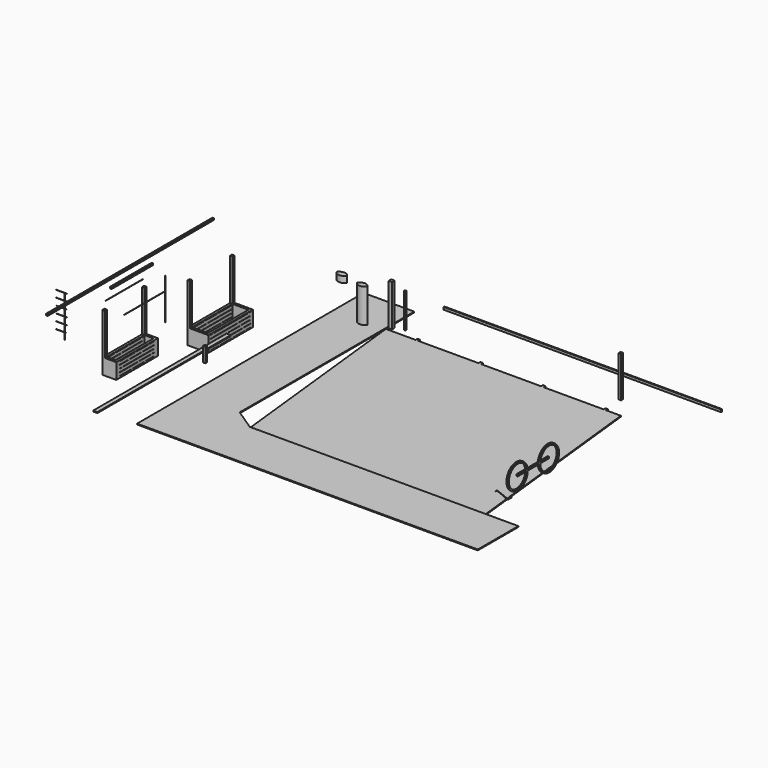
from build123d import *

# Parameters (mm, degrees)
F0_W      = 70
F0_H      = 70
F1_DEPTH  = 25
F0_W_2    = 95
F0_H_2    = 95
F2_W      = 70
F2_H      = 70
F3_DEPTH  = 1180
F4_DEPTH  = 1180
F5_W      = 8000
F5_H      = 30
F6_DEPTH  = 70
F8_DEPTH  = 1000
F9_W      = 35
F9_H      = 35
F10_DEPTH = 1000
F11_W     = 600
F11_H     = 1600
F12_DEPTH = 450
F13_W     = 1460
F13_H     = 5
F14_DEPTH = 700
F15_W     = 70
F15_H     = 70
F16_DEPTH = 1200
F17_W     = 1460
F17_H     = 5
F18_DEPTH = 5
F17_W_2   = 5
F17_H_2   = 1200
F19_W     = 460
F19_H     = 1460
F20_DEPTH = 680
F22_DEPTH = 180
F24_DEPTH = 25
F26_DEPTH = 400
F28_DEPTH = 55
F30_DEPTH = 40
F31_W     = 400
F31_H     = 1500
F32_DEPTH = 450
F33_W     = 1260
F33_H     = 5
F34_DEPTH = 444
F35_W     = 260
F35_H     = 1360
F36_DEPTH = 444
F37_W     = 70
F37_H     = 70
F38_DEPTH = 1200
F39_W     = 1360
F39_H     = 5
F40_DEPTH = 5
F42_DEPTH = 5
F43_W     = 1500
F43_H     = 45
F44_DEPTH = 45
F45_W     = 120
F45_H     = 4800
F46_DEPTH = 28
F47_W     = 70
F47_H     = 70
F48_DEPTH = 422
F49_W     = 6000
F49_H     = 45
F50_DEPTH = 45


with BuildPart() as f1:
    # F0 (on Top) → F1 (new body)
    with BuildSketch(Plane.XY):
        Polygon((-5869.2790788165, 5845.7974852638), (-6724.2790788165, 5845.7974852638), (-6103.0290788165, 165.7974852638), (50.7209211835, 165.7974852638), (50.7209211835, 2645.7974852638), (50.7209211835, 5845.7974852638), (-379.2790788165, 5845.7974852638), (-449.2790788165, 5845.7974852638), (-2184.2790788165, 5845.7974852638), (-2254.2790788165, 5845.7974852638), (-3984.2790788165, 5845.7974852638), (-4054.2790788165, 5845.7974852638), (-5799.2790788165, 5845.7974852638), align=None)
        with Locations((-414.2790788165, 5880.7974852638)):
            Rectangle(F0_W, F0_H)
        with Locations((-2219.2790788165, 5880.7974852638)):
            Rectangle(F0_W, F0_H)
        with Locations((-4019.2790788165, 5880.7974852638)):
            Rectangle(F0_W, F0_H)
        with Locations((-5834.2790788165, 5880.7974852638)):
            Rectangle(F0_W, F0_H)
        Polygon((50.7209211835, 2645.7974852638), (50.7209211835, 165.7974852638), (671.9709211835, 165.7974852638), (400.7209211835, 2645.7974852638), align=None)
        Polygon((50.7209211835, 5845.7974852638), (50.7209211835, 2645.7974852638), (400.7209211835, 2645.7974852638), align=None)
    extrude(amount=-F1_DEPTH)


with BuildPart() as f1b:
    # F0 (on Top) → F1, piece 2 (new body)
    with BuildSketch(Plane.XY):
        with Locations((-6676.7790788165, 5993.2974852638)):
            Rectangle(F0_W_2, F0_H_2)
    extrude(amount=-F1_DEPTH)

    # F4 (add): a face of the model
    f4_faces = [f1b.faces().sort_by_distance(p)[0] for p in [
        (-6676.7790788165, 5993.2974852638, 0),
    ]]
    extrude(f4_faces, amount=F4_DEPTH)


with BuildPart() as f3:
    # F2 (on Top) → F3 (new body)
    with BuildSketch(Plane.XY):
        with Locations((-449.0643179417, 6467.4450492859)):
            Rectangle(F2_W, F2_H)
    extrude(amount=F3_DEPTH)


with BuildPart() as f6:
    # F5 (on Top) → F6 (new body)
    with BuildSketch(Plane.XY):
        with Locations((-2295.0716018677, 7401.8494033813)):
            Rectangle(F5_W, F5_H)
    extrude(amount=F6_DEPTH)


with BuildPart() as f8:
    # F7 (on Top) → F8 (new body)
    with BuildSketch(Plane.XY):
        with BuildLine():
            Line((-7445.792636716, 5703.4991982798), (-7135.792636716, 5703.4991982798))
            ThreePointArc((-7135.792636716, 5703.4991982798), (-7202.4042890677, 5765.854420462), (-7290.792636716, 5788.4991982798))
            ThreePointArc((-7290.792636716, 5788.4991982798), (-7379.1809843644, 5765.854420462), (-7445.792636716, 5703.4991982798))
        make_face()
        with BuildLine():
            ThreePointArc((-7445.792636716, 5703.4991982798), (-7290.792636716, 5618.4991982798), (-7135.792636716, 5703.4991982798))
            Line((-7135.792636716, 5703.4991982798), (-7445.792636716, 5703.4991982798))
        make_face()
    extrude(amount=F8_DEPTH)


with BuildPart() as f10:
    # F9 (on Top) → F10 (new body)
    with BuildSketch(Plane.XY):
        with Locations((-6349.4686317444, 6072.027759552)):
            Rectangle(F9_W, F9_H)
    extrude(amount=F10_DEPTH)


with BuildPart() as f12:
    # F11 (on Top) → F12 (new body)
    with BuildSketch(Plane.XY):
        with Locations((-9414.3159866333, 3235.9128475189)):
            Rectangle(F11_W, F11_H)
    extrude(amount=F12_DEPTH)

    # F13 (on face) → F14 (cut)
    with BuildSketch(Plane(origin=(-9714.3159866333, 0, 0), x_dir=(0, -1, 0), z_dir=(-1, 0, 0))):
        with Locations((-3235.9128475189, 425.5)):
            Rectangle(F13_W, F13_H)
        with Locations((-3235.9128475189, 325.5)):
            Rectangle(F13_W, F13_H)
        with Locations((-3235.9128475189, 225.5)):
            Rectangle(F13_W, F13_H)
        with Locations((-3235.9128475189, 125.5)):
            Rectangle(F13_W, F13_H)
        with Locations((-3235.9128475189, 25.5)):
            Rectangle(F13_W, F13_H)
        with Locations((-3235.9128475189, -74.5)):
            Rectangle(F13_W, F13_H)
        with Locations((-3235.9128475189, -174.5)):
            Rectangle(F13_W, F13_H)
        with Locations((-3235.9128475189, -274.5)):
            Rectangle(F13_W, F13_H)
        with Locations((-3235.9128475189, -374.5)):
            Rectangle(F13_W, F13_H)
    extrude(amount=-F14_DEPTH, mode=Mode.SUBTRACT)

    # F15 (on face) → F16 (join)
    with BuildSketch(Plane.XY.offset(450)):
        with Locations((-9679.3159866333, 4000.9128475189)):
            Rectangle(F15_W, F15_H)
        with Locations((-9679.3159866333, 2470.9128475189)):
            Rectangle(F15_W, F15_H)
    extrude(amount=F16_DEPTH)

    # F19 (on face) → F20 (cut)
    with BuildSketch(Plane.XY.offset(450)):
        with Locations((-9414.3159866333, 3235.9128475189)):
            Rectangle(F19_W, F19_H)
    extrude(amount=-F20_DEPTH, mode=Mode.SUBTRACT)


with BuildPart() as f18:
    # F17 (on face) → F18 (new body)
    with BuildSketch(Plane.YZ.offset(-9644.3159866333)):
        with Locations((773.2828426361, 1760.5777406693)):
            Rectangle(F17_W, F17_H)
    extrude(amount=F18_DEPTH)


with BuildPart() as f18b:
    # F17 (on face) → F18, piece 2 (new body)
    with BuildSketch(Plane.YZ.offset(-9644.3159866333)):
        with Locations((1536.8949699402, 1562.3432159424)):
            Rectangle(F17_W_2, F17_H_2)
    extrude(amount=F18_DEPTH)


with BuildPart() as f22:
    # F21 (on face) → F22 (new body)
    with BuildSketch(Plane.XY.offset(1000)):
        with BuildLine():
            ThreePointArc((-7763.4728565626, 5638.9939374938), (-7851.8612042109, 5616.3491596761), (-7918.4728565626, 5553.9939374938))
            Line((-7918.4728565626, 5553.9939374938), (-7608.4728565626, 5553.9939374938))
            ThreePointArc((-7608.4728565626, 5553.9939374938), (-7675.0845089143, 5616.3491596761), (-7763.4728565626, 5638.9939374938))
        make_face()
        with BuildLine():
            Line((-7608.4728565626, 5553.9939374938), (-7918.4728565626, 5553.9939374938))
            ThreePointArc((-7918.4728565626, 5553.9939374938), (-7763.4728565626, 5468.9939374938), (-7608.4728565626, 5553.9939374938))
        make_face()
    extrude(amount=F22_DEPTH)


with BuildPart() as f24:
    # F23 (on face) → F24 (new body)
    with BuildSketch(Plane.XY):
        Polygon((-6724.2790788165, 575.919418352), (-6724.2790788165, 5845.7974852638), (-6724.2790788165, 6866.5833473206), (-8184.2790788165, 6866.5833473206), (-8184.2790788165, -1294.2025147362), (1636.7558240891, -1294.2025147362), (1636.7558240891, 165.7974852638), (671.9709211835, 165.7974852638), (-6103.0290788165, 165.7974852638), align=None)
    extrude(amount=F24_DEPTH)


with BuildPart() as f26:
    # F25 (on face) → F26 (new body)
    with BuildSketch(Plane.XY):
        with BuildLine():
            ThreePointArc((623.9199085236, 1175.5237293243), (616.890471272, 1192.4942920728), (599.9199085236, 1199.5237293243))
            Line((599.9199085236, 1199.5237293243), (597.9199085236, 1199.5237293243))
            ThreePointArc((597.9199085236, 1199.5237293243), (580.9493457751, 1192.4942920728), (573.9199085236, 1175.5237293243))
            Line((573.9199085236, 1175.5237293243), (573.9199085236, 1062.263886726))
            Line((573.9199085236, 1062.263886726), (581.9199085236, 989.1210295832))
            Line((581.9199085236, 989.1210295832), (581.9199085236, 1175.5237293243))
            ThreePointArc((581.9199085236, 1175.5237293243), (586.6062000246, 1186.8374378233), (597.9199085236, 1191.5237293243))
            Line((597.9199085236, 1191.5237293243), (599.9199085236, 1191.5237293243))
            ThreePointArc((599.9199085236, 1191.5237293243), (611.2336170225, 1186.8374378233), (615.9199085236, 1175.5237293243))
            Line((615.9199085236, 1175.5237293243), (615.9199085236, 678.263886726))
            Line((615.9199085236, 678.263886726), (622.7250547496, 616.045406945))
            ThreePointArc((622.7250547496, 616.045406945), (623.6193126239, 619.7371417725), (623.9199085236, 623.5237293243))
            Line((623.9199085236, 623.5237293243), (623.9199085236, 1175.5237293243))
        make_face()
    extrude(amount=F26_DEPTH)

    # F27 (on face) → F28 (cut)
    with BuildSketch(Plane.YZ.offset(623.9199085236)):
        Polygon((623.5237293243, 392), (400.9007413461, 392), (417.0500591248, -229.798211609), (1075.4414796829, -239.656701254), (1075.4414796829, 0), (1065.7824277878, 0), (623.5237293243, 0), align=None)
        Polygon((664.1947031021, 392), (623.5237293243, 392), (623.5237293243, 0), (1065.7824277878, 0), align=None)
        Polygon((670.0908140081, 465.2604162693), (667.45193757, 400), (1175.5237293243, 400), (1175.5237293243, 8), (1266.1646604538, 8), (1215.611238851, 445.5354809761), align=None)
        Polygon((1175.5237293243, 400), (667.45193757, 400), (1069.0396622557, 8), (1175.5237293243, 8), align=None)
    extrude(amount=-F28_DEPTH, mode=Mode.SUBTRACT)


with BuildPart() as f30:
    # F29 (on face) → F30 (new body)
    with BuildSketch(Plane.YZ.offset(623.9199085236)):
        with BuildLine():
            Line((2134.1955555213, 526.090323925), (1718.7136565911, 526.090323925))
            ThreePointArc((1718.7136565911, 526.090323925), (1002.1404968199, 459.5391004529), (1721.4546060562, 481.7510545254))
            Line((1721.4546060562, 481.7510545254), (2131.4546060562, 481.7510545254))
            ThreePointArc((2131.4546060562, 481.7510545254), (2850.7687152925, 459.5391004529), (2134.1955555213, 526.090323925))
        make_face()
        with BuildLine():
            ThreePointArc((1681.4546060562, 481.7510545254), (1042.2272179104, 459.5277636444), (1678.3678894463, 526.090323925))
            Line((1678.3678894463, 526.090323925), (1361.4546060562, 526.090323925))
            Line((1361.4546060562, 526.090323925), (1361.4546060562, 481.7510545254))
            Line((1361.4546060562, 481.7510545254), (1681.4546060562, 481.7510545254))
        make_face(mode=Mode.SUBTRACT)
        with BuildLine():
            Line((2171.4546060562, 481.7510545254), (2491.4546060562, 481.7510545254))
            Line((2491.4546060562, 481.7510545254), (2491.4546060562, 526.090323925))
            Line((2491.4546060562, 526.090323925), (2174.5413226661, 526.090323925))
            ThreePointArc((2174.5413226661, 526.090323925), (2810.6819942021, 459.5277636444), (2171.4546060562, 481.7510545254))
        make_face(mode=Mode.SUBTRACT)
    extrude(amount=F30_DEPTH)


with BuildPart() as f32:
    # F31 (on face) → F32 (new body)
    with BuildSketch(Plane.XY):
        with Locations((-10110.4724884033, 861.6825714707)):
            Rectangle(F31_W, F31_H)
    extrude(amount=F32_DEPTH)

    # F33 (on face) → F34 (cut)
    with BuildSketch(Plane(origin=(-10310.4724884033, 0, 0), x_dir=(0, -1, 0), z_dir=(-1, 0, 0))):
        with Locations((-836.6825714707, 427.5)):
            Rectangle(F33_W, F33_H)
        with Locations((-836.6825714707, 332.5)):
            Rectangle(F33_W, F33_H)
        with Locations((-836.6825714707, 237.5)):
            Rectangle(F33_W, F33_H)
        with Locations((-836.6825714707, 142.5)):
            Rectangle(F33_W, F33_H)
        with Locations((-836.6825714707, 47.5)):
            Rectangle(F33_W, F33_H)
    extrude(amount=-F34_DEPTH, mode=Mode.SUBTRACT)

    # F35 (on face) → F36 (cut)
    with BuildSketch(Plane.XY.offset(450)):
        with Locations((-10110.4724884033, 861.6825714707)):
            Rectangle(F35_W, F35_H)
    extrude(amount=-F36_DEPTH, mode=Mode.SUBTRACT)

    # F37 (on face) → F38 (join)
    with BuildSketch(Plane.XY.offset(450)):
        with Locations((-10275.4724884033, 146.6825714707)):
            Rectangle(F37_W, F37_H)
        with Locations((-10275.4724884033, 1576.6825714707)):
            Rectangle(F37_W, F37_H)
    extrude(amount=F38_DEPTH)


with BuildPart() as f40:
    # F39 (on face) → F40 (new body)
    with BuildSketch(Plane.YZ.offset(-10240.4724884033)):
        with Locations((795.8009469509, 1893.8551568985)):
            Rectangle(F39_W, F39_H)
    extrude(amount=F40_DEPTH)


with BuildPart() as f42:
    # F41 (on face) → F42 (new body)
    with BuildSketch(Plane.XZ.offset(-111.6825714707)):
        Polygon((-11337.1616668701, 1728.8455486298), (-11642.1616668701, 1728.8455486298), (-11642.1616668701, 1723.8455486298), (-11589.6616668701, 1723.8455486298), (-11589.6616668701, 1528.8455486298), (-11584.6616668701, 1528.8455486298), (-11584.6616668701, 1723.8455486298), (-11394.6616668701, 1723.8455486298), (-11394.6616668701, 1528.8455486298), (-11389.6616668701, 1528.8455486298), (-11389.6616668701, 1723.8455486298), (-11337.1616668701, 1723.8455486298), align=None)
        Polygon((-11589.6616668701, 1528.8455486298), (-11642.1616668701, 1528.8455486298), (-11642.1616668701, 1523.8455486298), (-11589.6616668701, 1523.8455486298), (-11589.6616668701, 1328.8455486298), (-11584.6616668701, 1328.8455486298), (-11584.6616668701, 1523.8455486298), (-11394.6616668701, 1523.8455486298), (-11394.6616668701, 1328.8455486298), (-11389.6616668701, 1328.8455486298), (-11389.6616668701, 1523.8455486298), (-11337.1616668701, 1523.8455486298), (-11337.1616668701, 1528.8455486298), (-11389.6616668701, 1528.8455486298), (-11394.6616668701, 1528.8455486298), (-11584.6616668701, 1528.8455486298), align=None)
        Polygon((-11589.6616668701, 1328.8455486298), (-11642.1616668701, 1328.8455486298), (-11642.1616668701, 1323.8455486298), (-11589.6616668701, 1323.8455486298), (-11589.6616668701, 1128.8455486298), (-11584.6616668701, 1128.8455486298), (-11584.6616668701, 1323.8455486298), (-11394.6616668701, 1323.8455486298), (-11394.6616668701, 1128.8455486298), (-11389.6616668701, 1128.8455486298), (-11389.6616668701, 1323.8455486298), (-11337.1616668701, 1323.8455486298), (-11337.1616668701, 1328.8455486298), (-11389.6616668701, 1328.8455486298), (-11394.6616668701, 1328.8455486298), (-11584.6616668701, 1328.8455486298), align=None)
        Polygon((-11589.6616668701, 1128.8455486298), (-11642.1616668701, 1128.8455486298), (-11642.1616668701, 1123.8455486298), (-11589.6616668701, 1123.8455486298), (-11589.6616668701, 928.8455486298), (-11584.6616668701, 928.8455486298), (-11584.6616668701, 1123.8455486298), (-11394.6616668701, 1123.8455486298), (-11394.6616668701, 928.8455486298), (-11389.6616668701, 928.8455486298), (-11389.6616668701, 1123.8455486298), (-11337.1616668701, 1123.8455486298), (-11337.1616668701, 1128.8455486298), (-11389.6616668701, 1128.8455486298), (-11394.6616668701, 1128.8455486298), (-11584.6616668701, 1128.8455486298), align=None)
        Polygon((-11589.6616668701, 928.8455486298), (-11642.1616668701, 928.8455486298), (-11642.1616668701, 923.8455486298), (-11589.6616668701, 923.8455486298), (-11589.6616668701, 728.8455486298), (-11584.6616668701, 728.8455486298), (-11584.6616668701, 923.8455486298), (-11394.6616668701, 923.8455486298), (-11394.6616668701, 728.8455486298), (-11389.6616668701, 728.8455486298), (-11389.6616668701, 923.8455486298), (-11337.1616668701, 923.8455486298), (-11337.1616668701, 928.8455486298), (-11389.6616668701, 928.8455486298), (-11394.6616668701, 928.8455486298), (-11584.6616668701, 928.8455486298), align=None)
        Polygon((-11589.6616668701, 728.8455486298), (-11642.1616668701, 728.8455486298), (-11642.1616668701, 723.8455486298), (-11589.6616668701, 723.8455486298), (-11589.6616668701, 528.8455486298), (-11584.6616668701, 528.8455486298), (-11584.6616668701, 723.8455486298), (-11394.6616668701, 723.8455486298), (-11394.6616668701, 528.8455486298), (-11389.6616668701, 528.8455486298), (-11389.6616668701, 723.8455486298), (-11337.1616668701, 723.8455486298), (-11337.1616668701, 728.8455486298), (-11389.6616668701, 728.8455486298), (-11394.6616668701, 728.8455486298), (-11584.6616668701, 728.8455486298), align=None)
    extrude(amount=F42_DEPTH)


with BuildPart() as f44:
    # F43 (on face) → F44 (new body)
    with BuildSketch(Plane.YZ.offset(-10240.4724884033)):
        with Locations((1046.0672974586, 2159.0654468536)):
            Rectangle(F43_W, F43_H)
    extrude(amount=F44_DEPTH)


with BuildPart() as f46:
    # F45 (on face) → F46 (new body)
    with BuildSketch(Plane.XY.offset(450)):
        with Locations((-8750.887336731, 309.1601371765)):
            Rectangle(F45_W, F45_H)
    extrude(amount=F46_DEPTH)


with BuildPart() as f48:
    # F47 (on face) → F48 (new body)
    with BuildSketch(Plane.XY.offset(450)):
        with Locations((-8345.0137710571, 1352.5311088562)):
            Rectangle(F47_W, F47_H)
    extrude(amount=F48_DEPTH)


with BuildPart() as f50:
    # F49 (on face) → F50 (new body)
    with BuildSketch(Plane.YZ.offset(-10195.4724884033)):
        with Locations((938.720703125, 2450.3032779694)):
            Rectangle(F49_W, F49_H)
    extrude(amount=F50_DEPTH)


solid = Compound([f1.part, f1b.part, f3.part, f6.part, f8.part, f10.part, f12.part, f18.part, f18b.part, f22.part, f24.part, f26.part, f30.part, f32.part, f40.part, f42.part, f44.part, f46.part, f48.part, f50.part])
